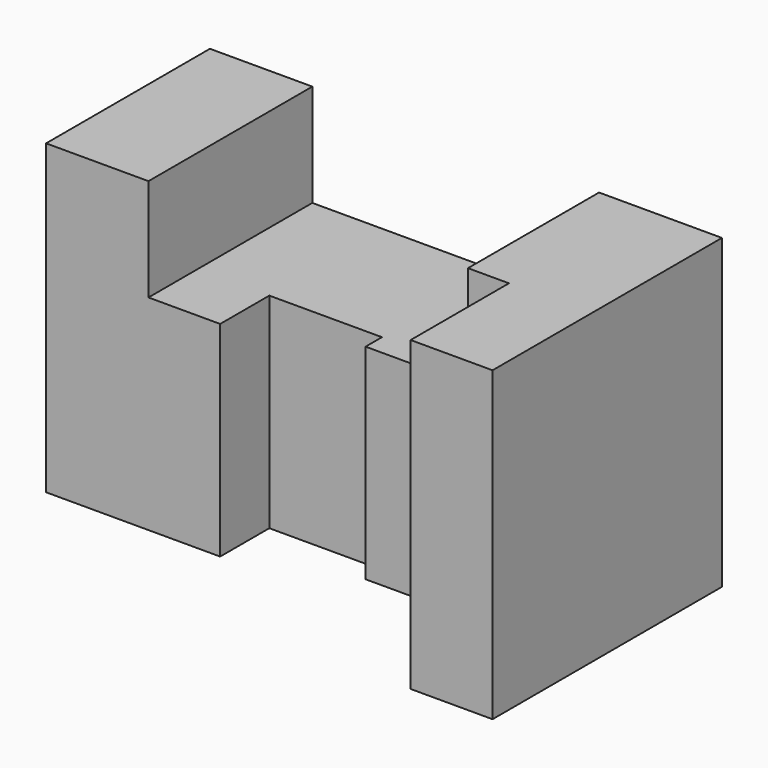
from build123d import *

# Parameters (mm, degrees)
F0_W     = 25
F0_H     = 50
F0_W_2   = 27.5
F0_H_2   = 35
F0_W_3   = 10
F0_H_3   = 40
F1_DEPTH = 75
F2_W     = 70
F2_H     = 25
F3_DEPTH = 50.001


with BuildPart() as f1:
    # F0 (on Top) → F1 (new body)
    with BuildSketch(Plane.XY):
        with Locations((12.5, 25)):
            Rectangle(F0_W, F0_H)
        Polygon((25, 50), (25, 0), (42.5, 0), (42.5, 15), (42.5, 50), align=None)
        with Locations((56.25, 32.5)):
            Rectangle(F0_W_2, F0_H_2)
        Polygon((95, 50), (70, 50), (70, 15), (70, 10), (95, 10), align=None)
        with Locations((100, 30)):
            Rectangle(F0_W_3, F0_H_3)
        Polygon((125, 50), (105, 50), (105, 10), (105, -20), (125, -20), align=None)
    extrude(amount=F1_DEPTH)

    # F2 (on Front) → F3 (cut, through all)
    with BuildSketch(Plane.XZ):
        with Locations((60, 62.5)):
            Rectangle(F2_W, F2_H)
    extrude(amount=-F3_DEPTH, mode=Mode.SUBTRACT)


solid = f1.part
